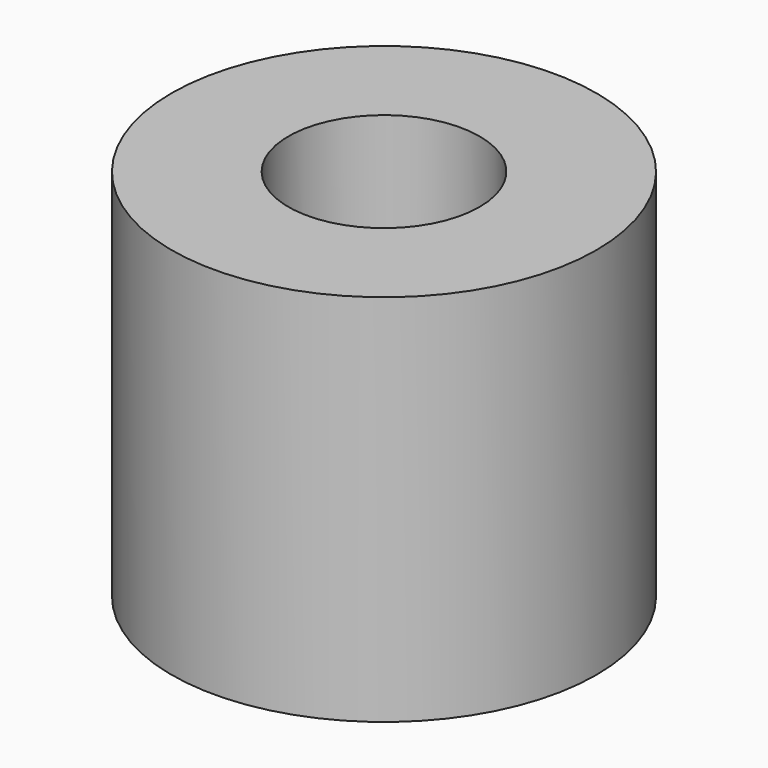
from build123d import *

# Parameters (mm, degrees)
SKETCH_R     = 5
PAD_DEPTH    = 8.8
SKETCH001_R  = 2.25
POCKET_DEPTH = 8.801


with BuildPart() as part:
    # Sketch → Pad (new body)
    with BuildSketch(Plane.XY):
        Circle(SKETCH_R)
    extrude(amount=PAD_DEPTH)

    # Sketch001 → Pocket (cut, through all)
    with BuildSketch(Plane.XY.offset(8.8)):
        Circle(SKETCH001_R)
    extrude(amount=-POCKET_DEPTH, mode=Mode.SUBTRACT)


solid = part.part
